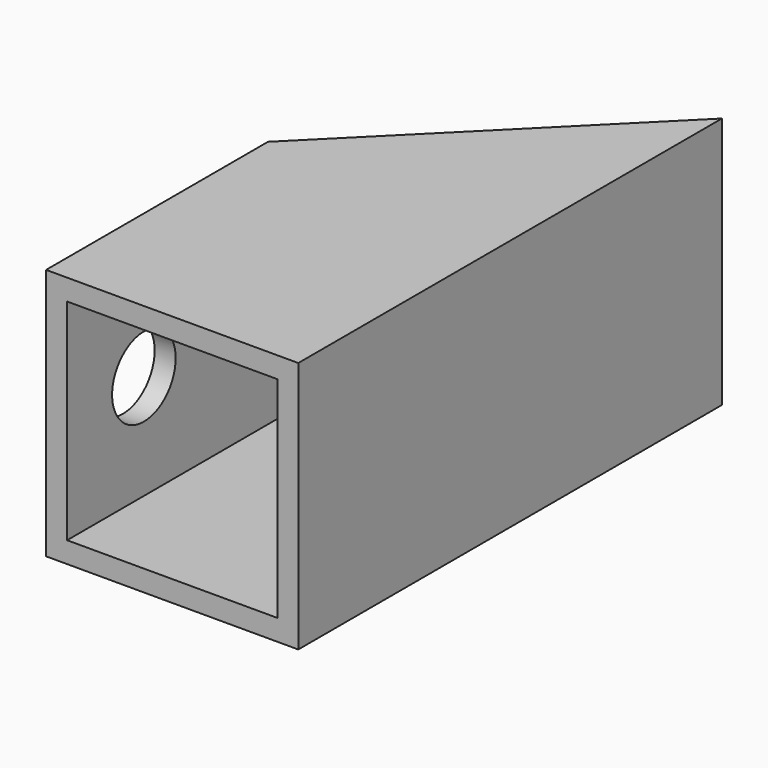
from build123d import *

# Parameters (mm, degrees)
F0_W     = 19.05
F0_H     = 19.05
F0_W_2   = 15.875
F0_H_2   = 15.875
F1_DEPTH = 40
F3_DEPTH = 9.526
F4_DEPTH = 9.526
F5_R     = 3
F6_DEPTH = 9.526


with BuildPart() as f1:
    # F0 (on Front) → F1 (new body)
    with BuildSketch(Plane.XZ):
        Rectangle(F0_W, F0_H)
        Rectangle(F0_W_2, F0_H_2, mode=Mode.SUBTRACT)
    extrude(amount=F1_DEPTH)

    # F2 (on Top) → F3 (cut, through all)
    with BuildSketch(Plane.XY):
        Polygon((9.525, 0), (-9.525, 0), (-9.525, -19.05), align=None)
    extrude(amount=-F3_DEPTH, mode=Mode.SUBTRACT)

    # F2 (on Top) → F4 (cut, through all)
    with BuildSketch(Plane.XY):
        Polygon((9.525, 0), (-9.525, 0), (-9.525, -19.05), align=None)
    extrude(amount=F4_DEPTH, mode=Mode.SUBTRACT)

    # F5 (on Right) → F6 (cut, through all)
    with BuildSketch(Plane.YZ):
        with Locations((-32.75, 0)):
            Circle(F5_R)
    extrude(amount=-F6_DEPTH, mode=Mode.SUBTRACT)


solid = f1.part
